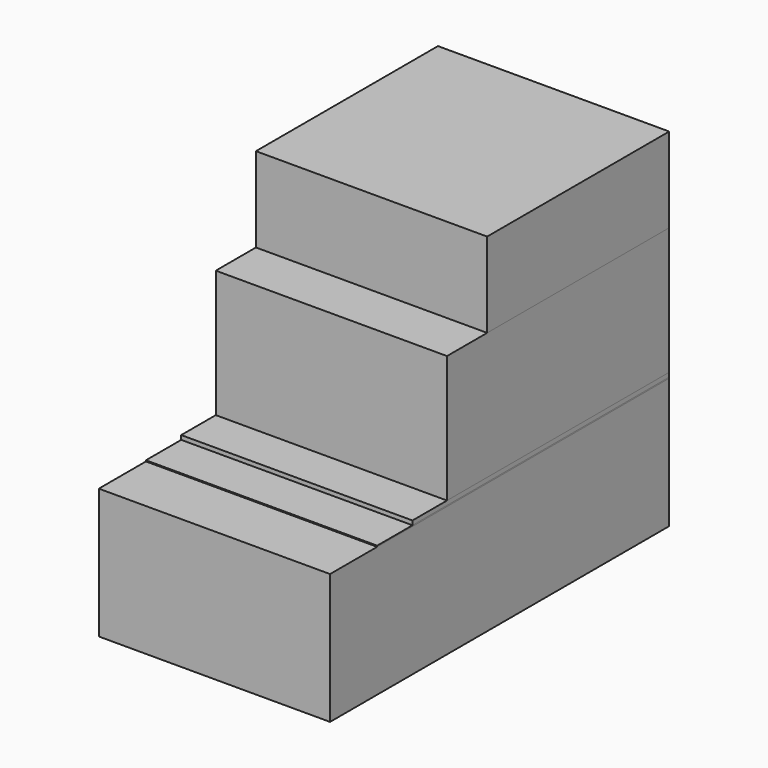
from build123d import *

# Parameters (mm, degrees)
F0_W     = 109.089673
F0_H     = 61.409078
F1_DEPTH = 200
F2_W     = 109.089673
F2_H     = 172.21871
F3_DEPTH = 0.5
F4_W     = 109.089673
F4_H     = 151.397005
F5_DEPTH = 2
F6_W     = 109.089673
F6_H     = 131.028727
F7_DEPTH = 60
F8_W     = 109.089673
F8_H     = 107.349873
F9_DEPTH = 40


with BuildPart() as f1:
    # F0 (on Front) → F1 (new body)
    with BuildSketch(Plane.XZ):
        with Locations((5.09283, -4.871372)):
            Rectangle(F0_W, F0_H)
    extrude(amount=F1_DEPTH)


with BuildPart() as f3:
    # F2 (on face) → F3 (new body)
    with BuildSketch(Plane.XY.offset(25.833167)):
        with Locations((5.09283, -86.109355)):
            Rectangle(F2_W, F2_H)
    extrude(amount=F3_DEPTH)


with BuildPart() as f5:
    # F4 (on face) → F5 (new body)
    with BuildSketch(Plane.XY.offset(26.333167)):
        with Locations((5.09283, -75.698503)):
            Rectangle(F4_W, F4_H)
    extrude(amount=F5_DEPTH)


with BuildPart() as f7:
    # F6 (on face) → F7 (new body)
    with BuildSketch(Plane.XY.offset(28.333167)):
        with Locations((5.09283, -65.514364)):
            Rectangle(F6_W, F6_H)
    extrude(amount=F7_DEPTH)


with BuildPart() as f9:
    # F8 (on face) → F9 (new body)
    with BuildSketch(Plane.XY.offset(88.333167)):
        with Locations((5.09283, -53.674936)):
            Rectangle(F8_W, F8_H)
    extrude(amount=F9_DEPTH)


solid = Compound([f1.part, f3.part, f5.part, f7.part, f9.part])
